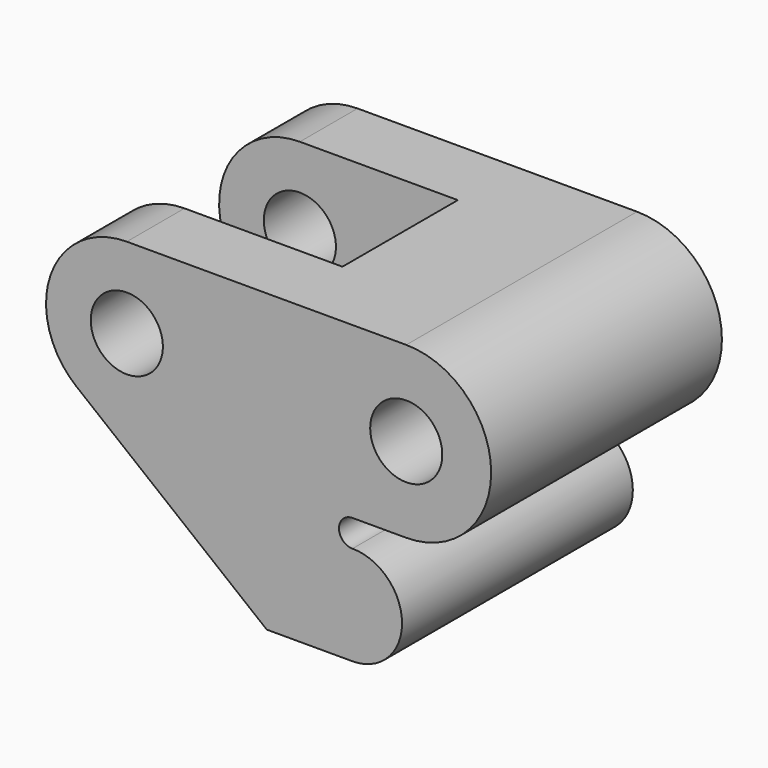
from build123d import *

# Parameters (mm, degrees)
F1_DEPTH = 16
F2_W     = 26.482794
F2_H     = 16
F3_DEPTH = 32.841
F5_D     = 8


with BuildPart() as f1:
    # F0 (on Front) → F1 (new body, symmetric)
    with BuildSketch(Plane.XZ):
        with BuildLine():
            Line((31, 0), (0, 0))
            ThreePointArc((0, 0), (-8.455, -5.99534), (-5.594569, -15.957722))
            Line((-5.594569, -15.957722), (15.523241, -32.84))
            Line((15.523241, -32.84), (25.036241, -32.84))
            ThreePointArc((25.036241, -32.84), (30.536241, -27.34), (25.036241, -21.84))
            ThreePointArc((25.036241, -21.84), (23.536241, -20.34), (25.036241, -18.84))
            Line((25.036241, -18.84), (31, -18.84))
            ThreePointArc((31, -18.84), (40.42, -9.42), (31, 0))
        make_face()
    extrude(amount=F1_DEPTH, both=True)

    # F2 (on face) → F3 (cut, through all)
    with BuildSketch(Plane(origin=(0, 0, -32.84), x_dir=(1, 0, 0), z_dir=(0, 0, -1))):
        with Locations((4.281844, 0)):
            Rectangle(F2_W, F2_H)
    extrude(amount=-F3_DEPTH, mode=Mode.SUBTRACT)

    # F5 (through all)
    with Locations(Plane.XZ.offset(16)):
        with Locations((0, -8.959553), (31, -9.42)):
            Hole(F5_D / 2)


solid = f1.part
